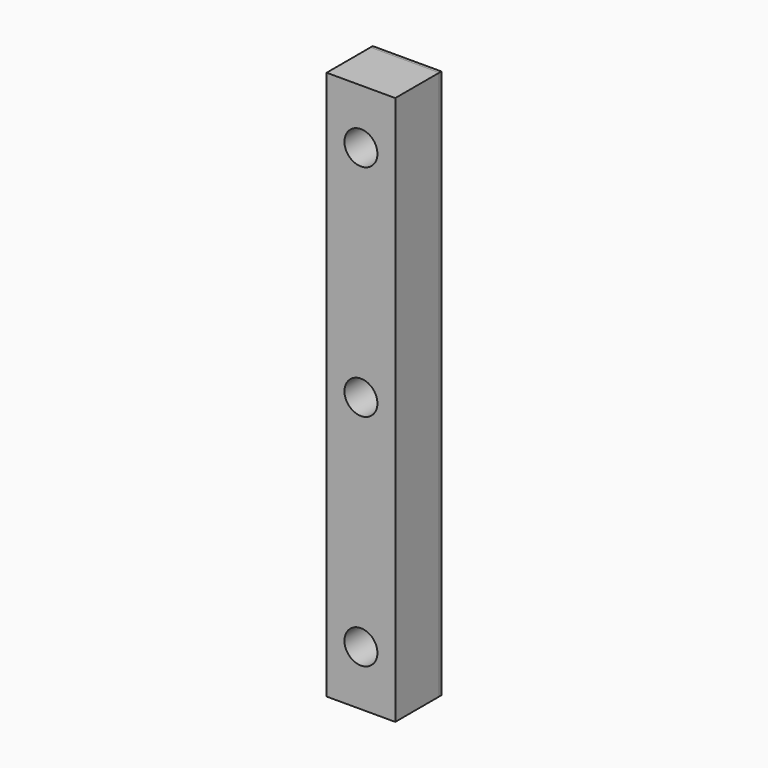
from build123d import *

# Parameters (mm, degrees)
F0_W     = 25
F0_H     = 200
F0_R     = 6
F1_DEPTH = 20
F2_DEPTH = 1


with BuildPart() as f1:
    # F0 (on Front) → F1 (new body)
    with BuildSketch(Plane.XZ):
        Rectangle(F0_W, F0_H)
        with Locations((0, -80)):
            Circle(F0_R, mode=Mode.SUBTRACT)
        Circle(F0_R, mode=Mode.SUBTRACT)
        with Locations((0, 80)):
            Circle(F0_R, mode=Mode.SUBTRACT)
    extrude(amount=F1_DEPTH)


with BuildPart() as f2:
    # F0 (on Front) → F2 (new body)
    with BuildSketch(Plane.XZ):
        Rectangle(F0_W, F0_H)
        with Locations((0, -80)):
            Circle(F0_R, mode=Mode.SUBTRACT)
        Circle(F0_R, mode=Mode.SUBTRACT)
        with Locations((0, 80)):
            Circle(F0_R, mode=Mode.SUBTRACT)
    extrude(amount=-F2_DEPTH)


solid = Compound([f1.part, f2.part])
